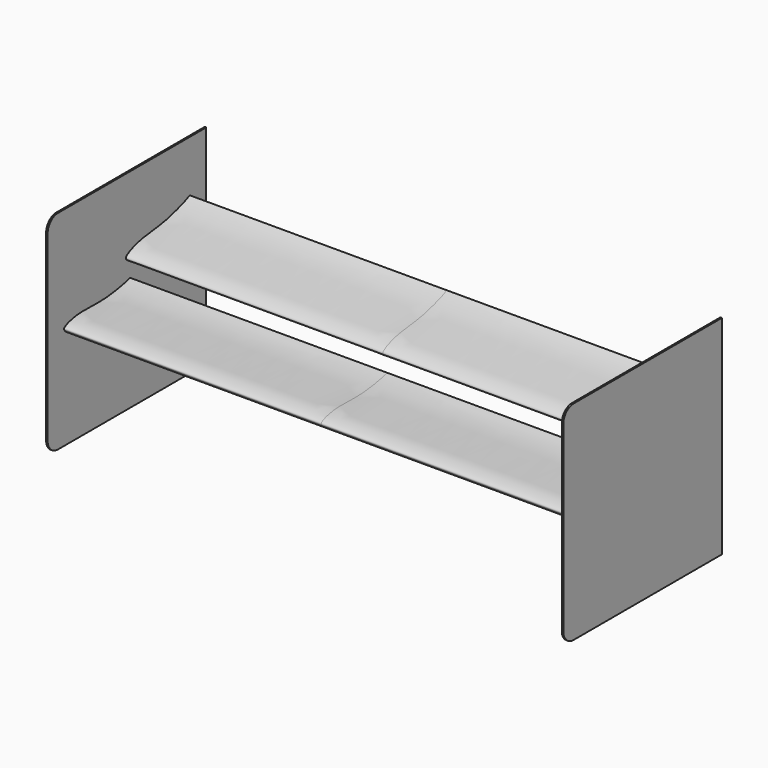
from build123d import *

# Parameters (mm, degrees)
F1_DEPTH = 500
F3_ANGLE = 180
F5_ANGLE = 8
F6_ANGLE = 8
F8_W     = 385.6574148645
F8_H     = 404.8868382345
F9_DEPTH = 3
F10_R    = 25


with BuildPart() as f1:
    # F0 (on Right) → F1 (new body, symmetric)
    with BuildSketch(Plane.YZ):
        with BuildLine():
            Line((162, -0.243), (162, 0.243))
            add(Edge.make_bspline(
                [(162, 0.243), (159.1619450205, 1.4616513188), (153.4951991753, 3.8951886295), (145.2919290226, 7.4702842416), (128.5697174764, 13.6195492166), (112.5992568952, 17.8058281824), (96.0897580903, 22.1037865258), (79.7897151056, 24.1391088442), (63.3677634911, 25.0017534599), (47.6789361386, 25.0124397017), (31.2922312973, 21.6878487835), (23.5910617163, 19.6522633771), (15.3258021149, 16.0189683803), (11.4263434371, 13.6924683532), (7.5675969268, 10.6253647033), (3.5498398761, 7.0130143458), (1.823290856, 4.8522462015), (-1.1601671909, -0.1245495439), (2.192811971, -2.8998371368), (4.2105625148, -3.7080910789), (8.4343278586, -4.8604884493), (12.5267188963, -5.8485929349), (16.5903122116, -6.3808114342), (25.0875736635, -7.039133744), (32.8752264557, -7.1993731727), (49.3837455012, -5.670466785), (64.8214839897, -2.8439560916), (81.0596873982, -0.5001689254), (97.0594952081, 1.6889675412), (113.3857141679, 2.5552375698), (129.048085591, 2.5829714623), (145.5372045442, 1.8303570646), (153.6622059121, 1.0368057819), (159.2172842597, 0.1841316437), (162, -0.243)],
                knots=[0, 0, 0, 0, 0.0300183969, 0.0599463455, 0.1017651869, 0.1430334414, 0.1840356467, 0.2245485953, 0.264824216, 0.3049859132, 0.3452887908, 0.374037664, 0.4033564983, 0.4246742199, 0.4468542233, 0.4696887537, 0.4870830828, 0.509319743, 0.5279408584, 0.5430138427, 0.563647005, 0.5841316487, 0.6043896881, 0.632901558, 0.661321736, 0.7014926983, 0.7417588958, 0.7820027402, 0.8222085094, 0.8623622749, 0.9025440409, 0.9427957036, 0.9713486435, 1, 1, 1, 1], degree=3))
        make_face()
    extrude(amount=F1_DEPTH, both=True)


with BuildPart() as f1_1:
    # F3: moved
    add(f1.part.rotate(Axis((0, 106.3420847058, 0), (0, 1, 0)), F3_ANGLE))


with BuildPart() as f1_2:
    # F5: moved
    add(f1_1.part.rotate(Axis((-0.1442283392, 0, 0), (1, 0, 0)), F5_ANGLE))


with BuildPart() as f6_1:
    # F6: copy of F1
    add(f1_2.part.rotate(Axis((-0.1442283392, 0, 0), (1, 0, 0)), F6_ANGLE))


with BuildPart() as f6_1_1:
    # F7: moved
    add(f6_1.part.moved(Location((0, 150, 60))))


with BuildPart() as f9:
    # F8 (on face) → F9 (new body)
    with BuildSketch(Plane.YZ.offset(500)):
        with Locations((152.8287074323, 2.4434191172)):
            Rectangle(F8_W, F8_H)
        with BuildLine():
            add(Edge.make_bspline(
                [(160.4572461997, 22.3054072148), (157.8164144592, 20.7036348147), (152.5434999288, 17.5051219302), (144.9176205799, 12.8231443577), (129.2139607222, 4.4064415709), (113.9815409907, -1.9617553386), (98.2308716836, -8.5155643908), (82.3727217154, -12.7996066204), (66.2306443313, -15.9393499679), (50.6959868055, -18.1333949651), (34.0060626217, -17.1217472644), (26.0965415604, -16.1777676868), (17.4060619659, -13.7301334762), (13.2207663287, -11.9689745436), (8.9727145483, -9.4687534533), (4.491316032, -6.4507219488), (2.4808488652, -4.5512714326), (-1.1662104698, -0.0381266293), (1.767892349, 3.176796563), (3.6535190758, 4.2580012334), (7.67579631, 5.9870180724), (11.5908429141, 7.5350571441), (15.5408191196, 8.6276390124), (23.8637650499, 10.4621448006), (31.5533279223, 11.7046565785), (48.1139698383, 12.4881711905), (63.7948435752, 11.8376858421), (80.2012100323, 11.7766293739), (96.3499777229, 11.8355403006), (112.6378725282, 13.2498712719), (128.1516786411, 15.4021880831), (144.3755829425, 18.442319906), (152.3110713629, 20.3589300378), (157.693418766, 21.9764234896), (160.3896080726, 22.7866774962)],
                knots=[0, 0, 0, 0, 0.0300183969, 0.0599463455, 0.1017651869, 0.1430334414, 0.1840356467, 0.2245485953, 0.264824216, 0.3049859132, 0.3452887908, 0.374037664, 0.4033564983, 0.4246742199, 0.4468542233, 0.4696887537, 0.4870830828, 0.509319743, 0.5279408584, 0.5430138427, 0.563647005, 0.5841316487, 0.6043896881, 0.632901558, 0.661321736, 0.7014926983, 0.7417588958, 0.7820027402, 0.8222085094, 0.8623622749, 0.9025440409, 0.9427957036, 0.9713486435, 1, 1, 1, 1], degree=3))
            Line((160.3896080726, 22.7866774962), (160.4572461997, 22.3054072148))
        make_face(mode=Mode.SUBTRACT)
        with BuildLine():
            Line((160.4572461997, 22.3054072148), (160.3896080726, 22.7866774962))
            add(Edge.make_bspline(
                [(160.4572461997, 22.3054072148), (157.8164144592, 20.7036348147), (152.5434999288, 17.5051219302), (144.9176205799, 12.8231443577), (129.2139607222, 4.4064415709), (113.9815409907, -1.9617553386), (98.2308716836, -8.5155643908), (82.3727217154, -12.7996066204), (66.2306443313, -15.9393499679), (50.6959868055, -18.1333949651), (34.0060626217, -17.1217472644), (26.0965415604, -16.1777676868), (17.4060619659, -13.7301334762), (13.2207663287, -11.9689745436), (8.9727145483, -9.4687534533), (4.491316032, -6.4507219488), (2.4808488652, -4.5512714326), (-1.1662104698, -0.0381266293), (1.767892349, 3.176796563), (3.6535190758, 4.2580012334), (7.67579631, 5.9870180724), (11.5908429141, 7.5350571441), (15.5408191196, 8.6276390124), (23.8637650499, 10.4621448006), (31.5533279223, 11.7046565785), (48.1139698383, 12.4881711905), (63.7948435752, 11.8376858421), (80.2012100323, 11.7766293739), (96.3499777229, 11.8355403006), (112.6378725282, 13.2498712719), (128.1516786411, 15.4021880831), (144.3755829425, 18.442319906), (152.3110713629, 20.3589300378), (157.693418766, 21.9764234896), (160.3896080726, 22.7866774962)],
                knots=[0, 0, 0, 0, 0.0300183969, 0.0599463455, 0.1017651869, 0.1430334414, 0.1840356467, 0.2245485953, 0.264824216, 0.3049859132, 0.3452887908, 0.374037664, 0.4033564983, 0.4246742199, 0.4468542233, 0.4696887537, 0.4870830828, 0.509319743, 0.5279408584, 0.5430138427, 0.563647005, 0.5841316487, 0.6043896881, 0.632901558, 0.661321736, 0.7014926983, 0.7417588958, 0.7820027402, 0.8222085094, 0.8623622749, 0.9025440409, 0.9427957036, 0.9713486435, 1, 1, 1, 1], degree=3))
        make_face()
    extrude(amount=F9_DEPTH)

    # F10
    f10_edges = [f9.edges().sort_by_distance(p)[0] for p in [
        (501.5, -40, 204.886838),
        (501.5, -40, -200),
    ]]
    fillet(f10_edges, radius=F10_R)


with BuildPart() as f11_1:
    # F11: instance of F9
    add(f9.part.mirror(Plane.YZ))


solid = Compound([f1_2.part, f6_1_1.part, f9.part, f11_1.part])
